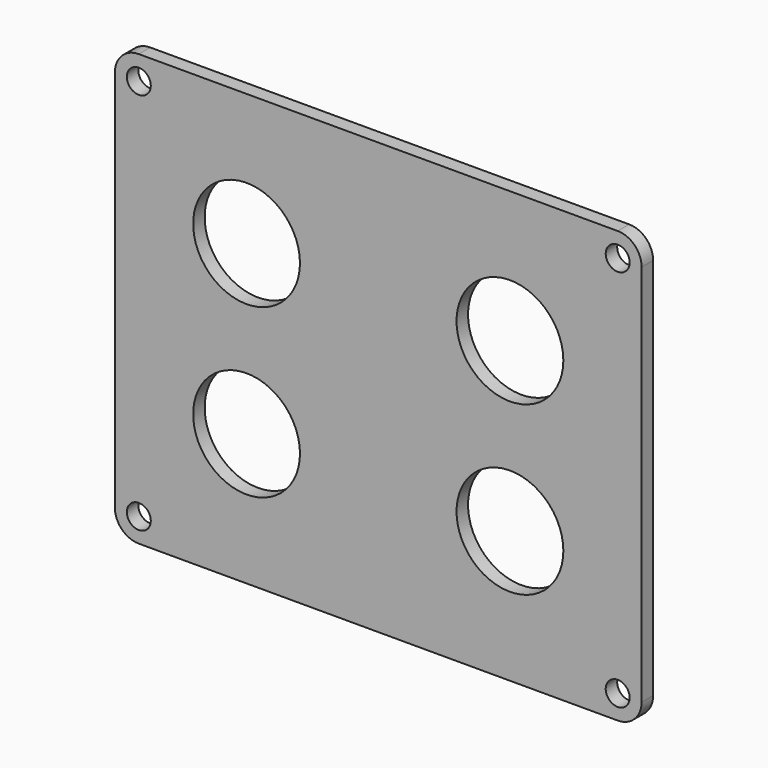
from build123d import *

# Parameters (mm, degrees)
F0_W     = 110
F0_H     = 90
F0_R     = 11.15
F1_DEPTH = 3
F2_R     = 2.5
F3_DEPTH = 3
F4_R     = 5


with BuildPart() as f1:
    # F0 (on Front) → F1 (new body)
    with BuildSketch(Plane.XZ):
        Rectangle(F0_W, F0_H)
        with Locations((-27.5, -17.5)):
            Circle(F0_R, mode=Mode.SUBTRACT)
        with Locations((27.5, -17.5)):
            Circle(F0_R, mode=Mode.SUBTRACT)
        with Locations((-27.5, 17.5)):
            Circle(F0_R, mode=Mode.SUBTRACT)
        with Locations((27.5, 17.5)):
            Circle(F0_R, mode=Mode.SUBTRACT)
    extrude(amount=F1_DEPTH)

    # F2 (on face) → F3 (cut, through all)
    with BuildSketch(Plane.XZ.offset(3)):
        with Locations((-50, 40)):
            Circle(F2_R)
        with Locations((50, 40)):
            Circle(F2_R)
        with Locations((50, -40)):
            Circle(F2_R)
        with Locations((-50, -40)):
            Circle(F2_R)
    extrude(amount=-F3_DEPTH, mode=Mode.SUBTRACT)

    # F4
    f4_edges = [f1.edges().sort_by_distance(p)[0] for p in [
        (55, -1.5, 45),
        (-55, -1.5, 45),
        (55, -1.5, -45),
        (-55, -1.5, -45),
    ]]
    fillet(f4_edges, radius=F4_R)


solid = f1.part
